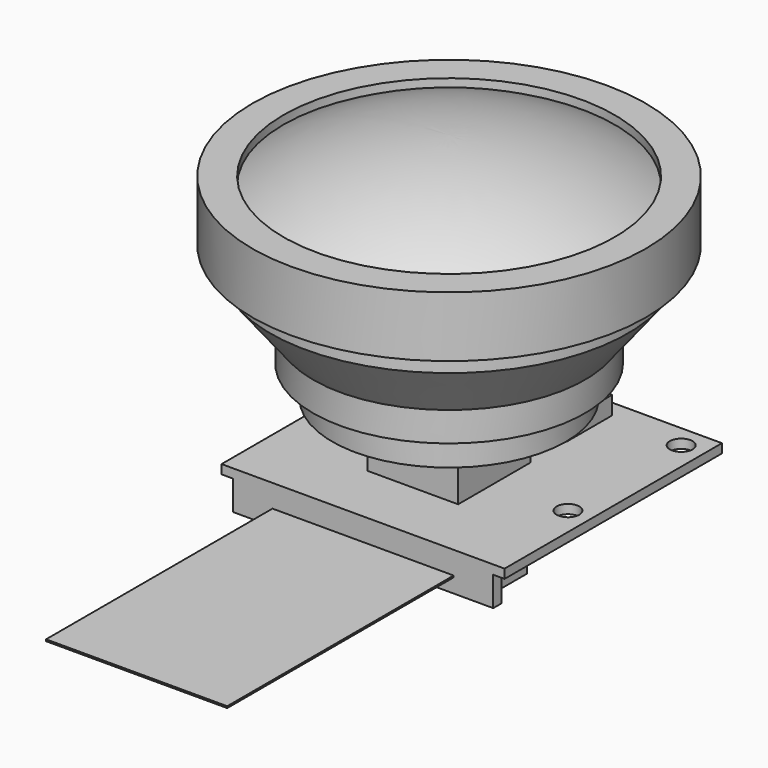
from build123d import *

# Parameters (mm, degrees)
F0_W      = 25
F0_H      = 24
F1_DEPTH  = 0.8
F2_W      = 8
F2_H      = 8
F3_DEPTH  = 3.2
F4_R      = 3.75
F5_DEPTH  = 1
F6_R      = 3
F7_DEPTH  = 1
F9_W      = 8
F9_H      = 5
F10_DEPTH = 1.6
F12_DEPTH = 2.6
F13_W     = 16
F13_H     = 0.15
F14_DEPTH = 25
F15_D     = 2
F18_R     = 10.325
F18_R_2   = 8.5
F19_DEPTH = 2.75


with BuildPart() as f1:
    # F0 (on Top) → F1 (new body)
    with BuildSketch(Plane.XY):
        with Locations((0, 2.5)):
            Rectangle(F0_W, F0_H)
    extrude(amount=-F1_DEPTH)

    # F2 (on face) → F3 (join)
    with BuildSketch(Plane.XY):
        Rectangle(F2_W, F2_H)
    extrude(amount=F3_DEPTH)

    # F4 (on face) → F5 (join)
    with BuildSketch(Plane.XY.offset(3.2)):
        Circle(F4_R)
    extrude(amount=F5_DEPTH)

    # F6 (on face) → F7 (join)
    with BuildSketch(Plane.XY.offset(4.2)):
        Circle(F6_R)
    extrude(amount=F7_DEPTH)

    # F9 (on face) → F10 (join)
    with BuildSketch(Plane.XY):
        with Locations((0, 10.5)):
            Rectangle(F9_W, F9_H)
    extrude(amount=F10_DEPTH)

    # F11 (on face) → F12 (join)
    with BuildSketch(Plane(origin=(0, 0, -0.8), x_dir=(1, 0, 0), z_dir=(0, 0, -1))):
        Polygon((11.5, 9.5), (-11.5, 9.5), (-11.5, 8.6), (-10.1, 8.6), (-10.1, 4), (10.1, 4), (10.1, 8.6), (11.5, 8.6), align=None)
    extrude(amount=F12_DEPTH)

    # F13 (on face) → F14 (join)
    with BuildSketch(Plane.XZ.offset(9.5)):
        with Locations((0, -2.075)):
            Rectangle(F13_W, F13_H)
    extrude(amount=F14_DEPTH)

    # F15 (through all)
    with Locations(Plane.XY):
        with Locations((-10.5, 12.5), (10.5, 12.5), (-10.5, 0), (10.5, 0)):
            Hole(F15_D / 2)


with BuildPart() as f17:
    # F16 (on Front) → F17 (revolve)
    with BuildSketch(Plane.XZ):
        with BuildLine():
            Line((-8.5, 8.05), (-8.5, 5.2))
            Line((-8.5, 5.2), (-7.15, 5.2))
            Line((-7.15, 5.2), (-5.3, 6.7))
            ThreePointArc((-5.3, 6.7), (-2.657536, 6.400142), (0, 6.3))
            Line((0, 6.3), (0, 25.8))
            ThreePointArc((0, 25.8), (-7.574515, 24.79512), (-14.625, 21.85))
            Line((-14.625, 21.85), (-14.625, 22.6))
            Line((-14.625, 22.6), (-17.375, 22.6))
            Line((-17.375, 22.6), (-17.375, 17.25))
            Line((-17.375, 17.25), (-15.8, 17.25))
            Line((-15.8, 17.25), (-15.8, 15.5))
            Line((-15.8, 15.5), (-12, 10.65))
            Line((-12, 10.65), (-12, 8.05))
            Line((-12, 8.05), (-8.5, 8.05))
        make_face()
    revolve(axis=Axis((0, 0, 12.393127), (0, 0, -1)))


with BuildPart() as f19:
    # F18 (on face) → F19 (new body)
    with BuildSketch(Plane(origin=(0, 0, 8.05), x_dir=(1, 0, 0), z_dir=(0, 0, -1))):
        Circle(F18_R)
        Circle(F18_R_2, mode=Mode.SUBTRACT)
    extrude(amount=F19_DEPTH)


solid = Compound([f1.part, f17.part, f19.part])
